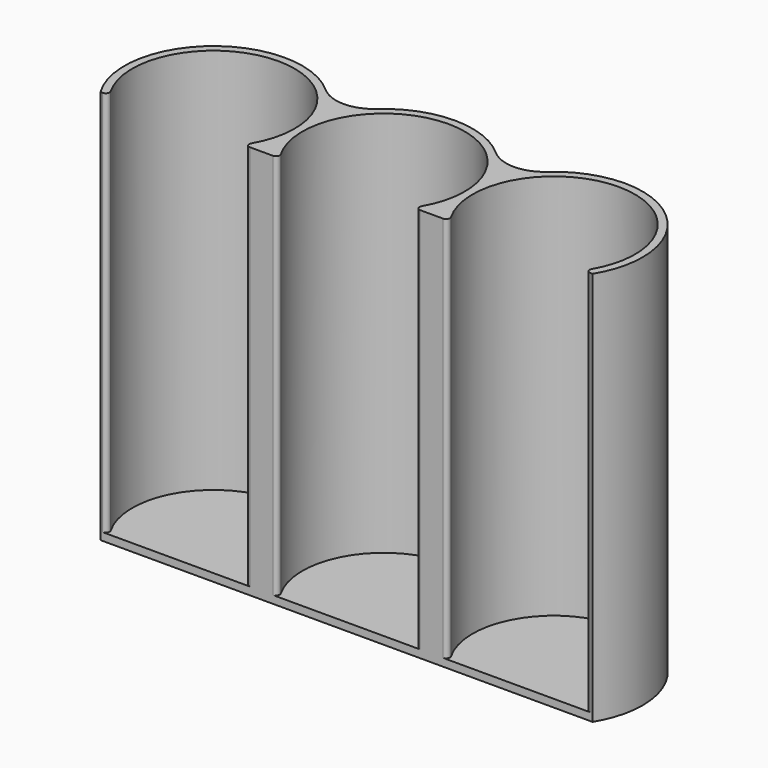
from build123d import *

# Parameters (mm, degrees)
F0_R     = 10.5
F1_DEPTH = 1
F2_DEPTH = 50
F3_R     = 5
F5_DEPTH = 51
F6_R     = 0.5


with BuildPart() as f1:
    # F0 (on Top) → F1 (new body)
    with BuildSketch(Plane.XY):
        with BuildLine():
            ThreePointArc((11, -3.3541019662), (10.6256868339, -1.6955824958), (10.5, 0))
            ThreePointArc((10.5, 0), (10.6256868339, 1.6955824958), (11, 3.3541019662))
            ThreePointArc((11, 3.3541019662), (-11.5, 0), (11, -3.3541019662))
        make_face()
        Circle(F0_R, mode=Mode.SUBTRACT)
        with BuildLine():
            ThreePointArc((55.5, 0), (45.6955824958, 11.3743131661), (33, 3.3541019662))
            ThreePointArc((33, 3.3541019662), (33.3743131661, 1.6955824958), (33.5, 0))
            ThreePointArc((33.5, 0), (33.3743131661, -1.6955824958), (33, -3.3541019662))
            ThreePointArc((33, -3.3541019662), (45.6955824958, -11.3743131661), (55.5, 0))
        make_face()
        with BuildLine():
            ThreePointArc((54.5, 0), (44, -10.5), (33.5, 0))
            ThreePointArc((33.5, 0), (44, 10.5), (54.5, 0))
        make_face(mode=Mode.SUBTRACT)
        Circle(F0_R)
        with BuildLine():
            ThreePointArc((32.5, 0), (22, 10.5), (11.5, 0))
            ThreePointArc((11.5, 0), (22, -10.5), (32.5, 0))
        make_face()
        with BuildLine():
            ThreePointArc((54.5, 0), (44, 10.5), (33.5, 0))
            ThreePointArc((33.5, 0), (44, -10.5), (54.5, 0))
        make_face()
        with BuildLine():
            ThreePointArc((33, 3.3541019662), (22, 11.5), (11, 3.3541019662))
            ThreePointArc((11, 3.3541019662), (11.3743131661, 1.6955824958), (11.5, 0))
            ThreePointArc((11.5, 0), (22, 10.5), (32.5, 0))
            ThreePointArc((32.5, 0), (32.6256868339, 1.6955824958), (33, 3.3541019662))
        make_face()
        with BuildLine():
            ThreePointArc((11.5, 0), (11.3743131661, -1.6955824958), (11, -3.3541019662))
            ThreePointArc((11, -3.3541019662), (22, -11.5), (33, -3.3541019662))
            ThreePointArc((33, -3.3541019662), (32.6256868339, -1.6955824958), (32.5, 0))
            ThreePointArc((32.5, 0), (22, -10.5), (11.5, 0))
        make_face()
        with BuildLine():
            ThreePointArc((11, 3.3541019662), (10.6256868339, 1.6955824958), (10.5, 0))
            ThreePointArc((10.5, 0), (10.6256868339, -1.6955824958), (11, -3.3541019662))
            ThreePointArc((11, -3.3541019662), (11.3743131661, -1.6955824958), (11.5, 0))
            ThreePointArc((11.5, 0), (11.3743131661, 1.6955824958), (11, 3.3541019662))
        make_face()
        with BuildLine():
            ThreePointArc((33.5, 0), (33.3743131661, 1.6955824958), (33, 3.3541019662))
            ThreePointArc((33, 3.3541019662), (32.6256868339, 1.6955824958), (32.5, 0))
            ThreePointArc((32.5, 0), (32.6256868339, -1.6955824958), (33, -3.3541019662))
            ThreePointArc((33, -3.3541019662), (33.3743131661, -1.6955824958), (33.5, 0))
        make_face()
    extrude(amount=-F1_DEPTH)

    # F0 (on Top) → F2 (join)
    with BuildSketch(Plane.XY):
        with BuildLine():
            ThreePointArc((11, -3.3541019662), (10.6256868339, -1.6955824958), (10.5, 0))
            ThreePointArc((10.5, 0), (10.6256868339, 1.6955824958), (11, 3.3541019662))
            ThreePointArc((11, 3.3541019662), (-11.5, 0), (11, -3.3541019662))
        make_face()
        Circle(F0_R, mode=Mode.SUBTRACT)
        with BuildLine():
            ThreePointArc((11, 3.3541019662), (10.6256868339, 1.6955824958), (10.5, 0))
            ThreePointArc((10.5, 0), (10.6256868339, -1.6955824958), (11, -3.3541019662))
            ThreePointArc((11, -3.3541019662), (11.3743131661, -1.6955824958), (11.5, 0))
            ThreePointArc((11.5, 0), (11.3743131661, 1.6955824958), (11, 3.3541019662))
        make_face()
        with BuildLine():
            ThreePointArc((33, 3.3541019662), (22, 11.5), (11, 3.3541019662))
            ThreePointArc((11, 3.3541019662), (11.3743131661, 1.6955824958), (11.5, 0))
            ThreePointArc((11.5, 0), (22, 10.5), (32.5, 0))
            ThreePointArc((32.5, 0), (32.6256868339, 1.6955824958), (33, 3.3541019662))
        make_face()
        with BuildLine():
            ThreePointArc((11.5, 0), (11.3743131661, -1.6955824958), (11, -3.3541019662))
            ThreePointArc((11, -3.3541019662), (22, -11.5), (33, -3.3541019662))
            ThreePointArc((33, -3.3541019662), (32.6256868339, -1.6955824958), (32.5, 0))
            ThreePointArc((32.5, 0), (22, -10.5), (11.5, 0))
        make_face()
        with BuildLine():
            ThreePointArc((33.5, 0), (33.3743131661, 1.6955824958), (33, 3.3541019662))
            ThreePointArc((33, 3.3541019662), (32.6256868339, 1.6955824958), (32.5, 0))
            ThreePointArc((32.5, 0), (32.6256868339, -1.6955824958), (33, -3.3541019662))
            ThreePointArc((33, -3.3541019662), (33.3743131661, -1.6955824958), (33.5, 0))
        make_face()
        with BuildLine():
            ThreePointArc((55.5, 0), (45.6955824958, 11.3743131661), (33, 3.3541019662))
            ThreePointArc((33, 3.3541019662), (33.3743131661, 1.6955824958), (33.5, 0))
            ThreePointArc((33.5, 0), (33.3743131661, -1.6955824958), (33, -3.3541019662))
            ThreePointArc((33, -3.3541019662), (45.6955824958, -11.3743131661), (55.5, 0))
        make_face()
        with BuildLine():
            ThreePointArc((54.5, 0), (44, -10.5), (33.5, 0))
            ThreePointArc((33.5, 0), (44, 10.5), (54.5, 0))
        make_face(mode=Mode.SUBTRACT)
    extrude(amount=F2_DEPTH)

    # F3
    f3_edges = [f1.edges().sort_by_distance(p)[0] for p in [
        (11, 3.354102, 24.5),
        (33, 3.354102, 24.5),
        (11, -3.354102, 24.5),
        (33, -3.354102, 24.5),
    ]]
    fillet(f3_edges, radius=F3_R)

    # F4 (on face) → F5 (cut, through all)
    with BuildSketch(Plane.XY.offset(50)):
        with BuildLine():
            Line((-8.6168439698, -6), (-9.8107084352, -6))
            ThreePointArc((-9.8107084352, -6), (-1.674067678, -11.3774996115), (7.6666666667, -8.5715939137))
            add(Edge.make_bspline(
                [(7.6666666667, -8.5715939137), (7.8739148264, -8.3862255244), (8.0987281428, -8.2100412723), (8.3407825678, -8.0456674851), (8.5991550728, -7.8958830707), (8.8721389341, -7.7633595184), (9.4430101632, -7.5370516436), (9.7409333736, -7.4433205753), (10.0487851549, -7.3712866338), (10.3635540468, -7.3226772778), (10.6817776263, -7.2983738762), (11.3169501229, -7.2983738762), (11.6339014321, -7.3224833437), (11.9474393092, -7.3707047572), (12.2541428107, -7.4421708702), (12.5510327606, -7.5351814239), (13.1223942737, -7.760709488), (13.3967057595, -7.8934858401), (13.6563094067, -8.0436938162), (13.8994714876, -8.2086307147), (14.1252554599, -8.3854834059), (14.3333333333, -8.5715939137)],
                knots=[0, 0, 0, 0, 0, 0, 0, 0.2498284224, 0.2498284224, 0.2498284224, 0.2498284224, 0.2498284224, 0.4999999993, 0.4999999993, 0.4999999993, 0.4999999993, 0.4999999993, 0.749171392, 0.749171392, 0.749171392, 0.749171392, 0.749171392, 1, 1, 1, 1, 1, 1, 1], degree=6))
            ThreePointArc((14.3333333333, -8.5715939137), (22, -11.5), (29.6666666667, -8.5715939137))
            add(Edge.make_bspline(
                [(36.3333333333, -8.5715939137), (36.1260851736, -8.3862255244), (35.9012718572, -8.2100412723), (35.6592174322, -8.0456674851), (35.4008449272, -7.8958830707), (35.1278610659, -7.7633595184), (34.5569898368, -7.5370516436), (34.2590666264, -7.4433205753), (33.9512148451, -7.3712866338), (33.6364459532, -7.3226772778), (33.3182223737, -7.2983738762), (32.6830498771, -7.2983738762), (32.3660985679, -7.3224833437), (32.0525606908, -7.3707047572), (31.7458571893, -7.4421708702), (31.4489672394, -7.5351814239), (30.8776057263, -7.760709488), (30.6032942405, -7.8934858401), (30.3436905933, -8.0436938162), (30.1005285124, -8.2086307147), (29.8747445401, -8.3854834059), (29.6666666667, -8.5715939137)],
                knots=[0, 0, 0, 0, 0, 0, 0, 0.2498284224, 0.2498284224, 0.2498284224, 0.2498284224, 0.2498284224, 0.4999999993, 0.4999999993, 0.4999999993, 0.4999999993, 0.4999999993, 0.749171392, 0.749171392, 0.749171392, 0.749171392, 0.749171392, 1, 1, 1, 1, 1, 1, 1], degree=6))
            ThreePointArc((36.3333333333, -8.5715939137), (45.674067678, -11.3774996115), (53.8107084352, -6))
            Line((53.8107084352, -6), (52.6168439698, -6))
            ThreePointArc((52.6168439698, -6), (44, -10.5), (35.3831560302, -6))
            Line((35.3831560302, -6), (30.6168439698, -6))
            ThreePointArc((30.6168439698, -6), (22, -10.5), (13.3831560302, -6))
            Line((13.3831560302, -6), (8.6168439698, -6))
            ThreePointArc((8.6168439698, -6), (0, -10.5), (-8.6168439698, -6))
        make_face()
        with BuildLine():
            Line((8.6168439698, -6), (-8.6168439698, -6))
            ThreePointArc((-8.6168439698, -6), (0, -10.5), (8.6168439698, -6))
        make_face()
        with BuildLine():
            Line((30.6168439698, -6), (13.3831560302, -6))
            ThreePointArc((13.3831560302, -6), (22, -10.5), (30.6168439698, -6))
        make_face()
        with BuildLine():
            ThreePointArc((35.3831560302, -6), (44, -10.5), (52.6168439698, -6))
            Line((52.6168439698, -6), (35.3831560302, -6))
        make_face()
    extrude(amount=-F5_DEPTH, mode=Mode.SUBTRACT)

    # F6
    f6_edges = [f1.edges().sort_by_distance(p)[0] for p in [
        (-8.616844, -6, 25),
        (8.616844, -6, 25),
        (13.383156, -6, 25),
        (30.616844, -6, 25),
        (35.383156, -6, 25),
        (52.616844, -6, 25),
    ]]
    fillet(f6_edges, radius=F6_R)


solid = f1.part
